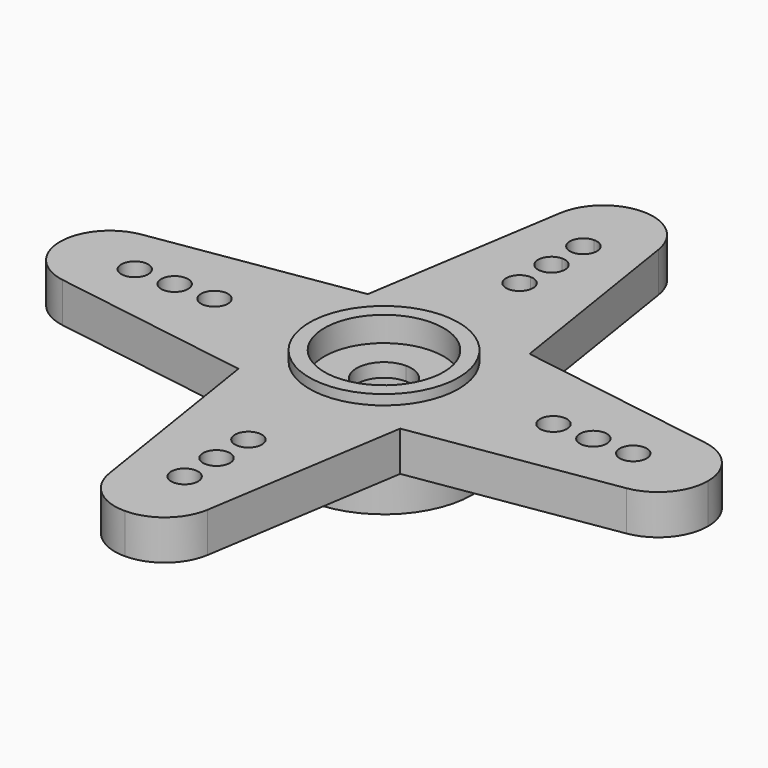
from build123d import *

# Parameters (mm, degrees)
F0_R     = 17.145
F1_DEPTH = 50.8
F2_R     = 94.996
F2_R_2   = 75.946
F3_DEPTH = 12.7
F4_R     = 75.946
F5_DEPTH = 31.75
F6_R     = 113.03
F6_R_2   = 69.85
F7_DEPTH = 61.976
F8_R     = 69.85
F9_DEPTH = 76.2


with BuildPart() as f1:
    # F0 (on Top) → F1 (new body)
    with BuildSketch(Plane.XY):
        with BuildLine():
            ThreePointArc((34.925, 0), (-24.695704, -24.695704), (0, 34.925))
            Line((0, 34.925), (0, 198.755))
            ThreePointArc((0, 198.755), (-17.145, 215.9), (0, 233.045))
            Line((0, 233.045), (0, 249.555))
            ThreePointArc((0, 249.555), (-17.145, 266.7), (0, 283.845))
            Line((0, 283.845), (0, 300.355))
            ThreePointArc((0, 300.355), (-17.145, 317.5), (0, 334.645))
            Line((0, 334.645), (0, 412.712916))
            ThreePointArc((0, 412.712916), (-41.261016, 397.480696), (-62.726854, 359.091769))
            Line((-62.726854, 359.091769), (-103.050756, 103.050756))
            Line((-103.050756, 103.050756), (-359.091769, 62.726854))
            ThreePointArc((-359.091769, 62.726854), (-397.480696, 41.261016), (-412.712916, 0))
            ThreePointArc((-412.712916, 0), (-397.480696, -41.261016), (-359.091769, -62.726854))
            Line((-359.091769, -62.726854), (-103.050756, -103.050756))
            Line((-103.050756, -103.050756), (-62.726854, -359.091769))
            ThreePointArc((-62.726854, -359.091769), (-41.261016, -397.480696), (0, -412.712916))
            ThreePointArc((0, -412.712916), (41.261016, -397.480696), (62.726854, -359.091769))
            Line((62.726854, -359.091769), (103.050756, -103.050756))
            Line((103.050756, -103.050756), (359.091769, -62.726854))
            ThreePointArc((359.091769, -62.726854), (397.480696, -41.261016), (412.712916, 0))
            Line((412.712916, 0), (334.645, 0))
            ThreePointArc((334.645, 0), (317.5, -17.145), (300.355, 0))
            Line((300.355, 0), (283.845, 0))
            ThreePointArc((283.845, 0), (266.7, -17.145), (249.555, 0))
            Line((249.555, 0), (233.045, 0))
            ThreePointArc((233.045, 0), (215.9, -17.145), (198.755, 0))
            Line((198.755, 0), (34.925, 0))
        make_face()
        with Locations((0, -317.5)):
            Circle(F0_R, mode=Mode.SUBTRACT)
        with Locations((0, -266.7)):
            Circle(F0_R, mode=Mode.SUBTRACT)
        with Locations((0, -215.9)):
            Circle(F0_R, mode=Mode.SUBTRACT)
        with Locations((-317.5, 0)):
            Circle(F0_R, mode=Mode.SUBTRACT)
        with Locations((-266.7, 0)):
            Circle(F0_R, mode=Mode.SUBTRACT)
        with Locations((-215.9, 0)):
            Circle(F0_R, mode=Mode.SUBTRACT)
        with BuildLine():
            Line((0, 198.755), (0, 34.925))
            ThreePointArc((0, 34.925), (13.365219, 32.266493), (24.695704, 24.695704))
            Line((24.695704, 24.695704), (103.050756, 103.050756))
            Line((103.050756, 103.050756), (62.726854, 359.091769))
            ThreePointArc((62.726854, 359.091769), (41.261016, 397.480696), (0, 412.712916))
            Line((0, 412.712916), (0, 334.645))
            ThreePointArc((0, 334.645), (12.123346, 329.623346), (17.145, 317.5))
            ThreePointArc((17.145, 317.5), (12.123346, 305.376654), (0, 300.355))
            Line((0, 300.355), (0, 283.845))
            ThreePointArc((0, 283.845), (12.123346, 278.823346), (17.145, 266.7))
            ThreePointArc((17.145, 266.7), (12.123346, 254.576654), (0, 249.555))
            Line((0, 249.555), (0, 233.045))
            ThreePointArc((0, 233.045), (12.123346, 228.023346), (17.145, 215.9))
            ThreePointArc((17.145, 215.9), (12.123346, 203.776654), (0, 198.755))
        make_face()
        with BuildLine():
            Line((103.050756, 103.050756), (24.695704, 24.695704))
            ThreePointArc((24.695704, 24.695704), (32.266493, 13.365219), (34.925, 0))
            Line((34.925, 0), (198.755, 0))
            ThreePointArc((198.755, 0), (215.9, 17.145), (233.045, 0))
            Line((233.045, 0), (249.555, 0))
            ThreePointArc((249.555, 0), (266.7, 17.145), (283.845, 0))
            Line((283.845, 0), (300.355, 0))
            ThreePointArc((300.355, 0), (317.5, 17.145), (334.645, 0))
            Line((334.645, 0), (412.712916, 0))
            ThreePointArc((412.712916, 0), (397.480696, 41.261016), (359.091769, 62.726854))
            Line((359.091769, 62.726854), (103.050756, 103.050756))
        make_face()
    extrude(amount=F1_DEPTH)

    # F2 (on face) → F3 (join)
    with BuildSketch(Plane.XY.offset(50.8)):
        Circle(F2_R)
        Circle(F2_R_2, mode=Mode.SUBTRACT)
    extrude(amount=F3_DEPTH)

    # F4 (on face) → F5 (cut)
    with BuildSketch(Plane.XY.offset(63.5)):
        Circle(F4_R)
    extrude(amount=-F5_DEPTH, mode=Mode.SUBTRACT)

    # F6 (on face) → F7 (join)
    with BuildSketch(Plane(origin=(0, 0, 0), x_dir=(1, 0, 0), z_dir=(0, 0, -1))):
        Circle(F6_R)
        Circle(F6_R_2, mode=Mode.SUBTRACT)
    extrude(amount=F7_DEPTH)

    # F8 (on face) → F9 (cut)
    with BuildSketch(Plane(origin=(0, 0, -61.976), x_dir=(1, 0, 0), z_dir=(0, 0, -1))):
        Circle(F8_R)
    extrude(amount=-F9_DEPTH, mode=Mode.SUBTRACT)


solid = f1.part
